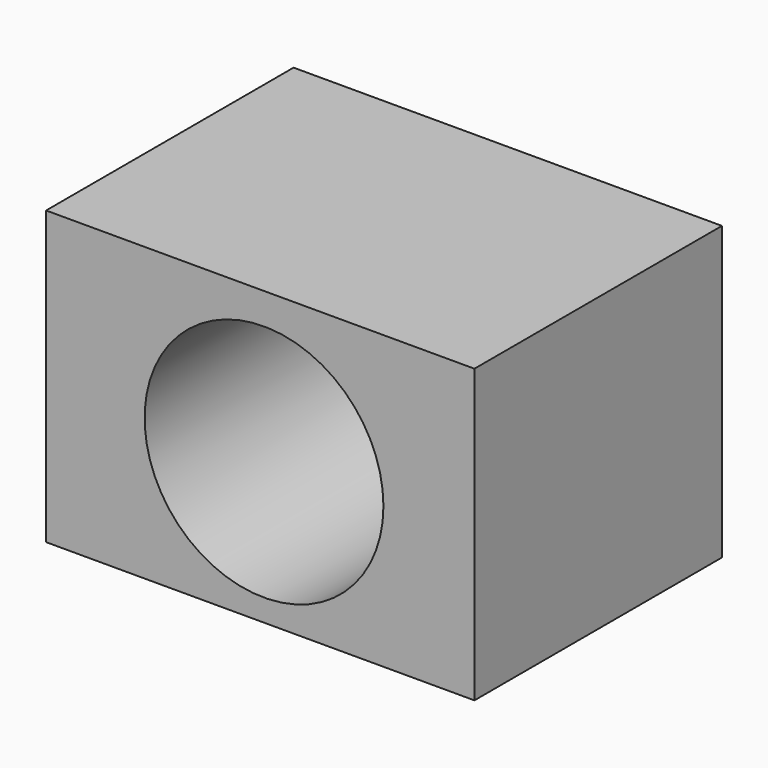
from build123d import *

# Parameters (mm, degrees)
F0_W     = 56.269944
F0_H     = 38.358275
F1_DEPTH = 40.64
F2_R     = 15.686232
F3_DEPTH = 40.641


with BuildPart() as f1:
    # F0 (on Front) → F1 (new body)
    with BuildSketch(Plane.XZ):
        with Locations((28.134972, 19.179137)):
            Rectangle(F0_W, F0_H)
    extrude(amount=F1_DEPTH)

    # F2 (on Front) → F3 (cut, through all)
    with BuildSketch(Plane.XZ):
        with Locations((28.629173, 18.580522)):
            Circle(F2_R)
    extrude(amount=F3_DEPTH, mode=Mode.SUBTRACT)


solid = f1.part
